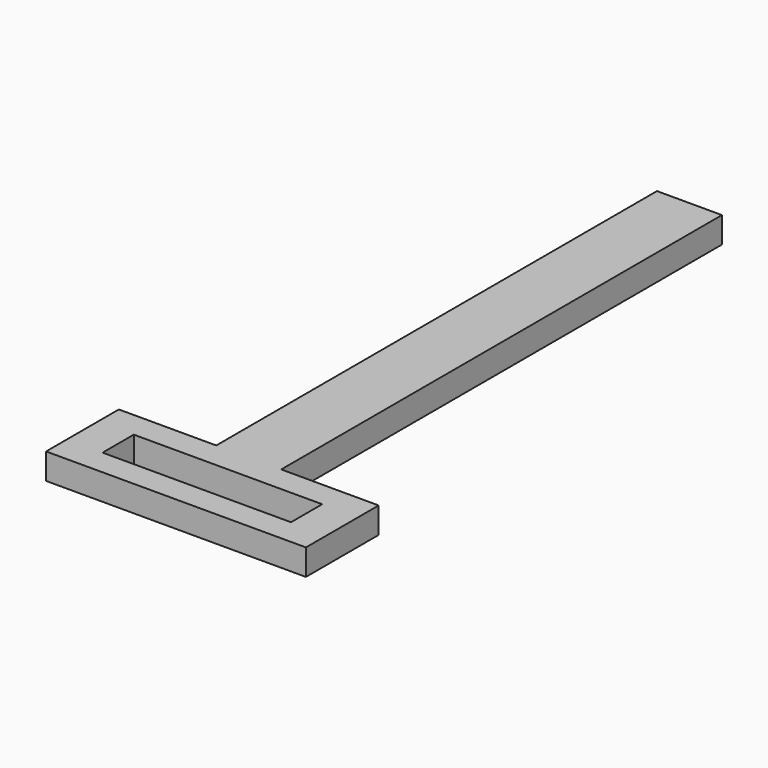
from build123d import *

# Parameters (mm, degrees)
BOX002_W     = 5
BOX002_H     = 42.400002
BOX002_DEPTH = 2
BOX001_W     = 14.5
BOX001_H     = 3
BOX001_DEPTH = 2
BOX_W        = 20
BOX_H        = 7
BOX_DEPTH    = 2


with BuildPart() as box002:
    # Box002 → Box002 (new body)
    with BuildSketch(Plane(origin=(7.5, 7, 0), x_dir=(1, 0, 0), z_dir=(0, 0, 1))):
        with Locations((2.5, 21.200001)):
            Rectangle(BOX002_W, BOX002_H)
    extrude(amount=BOX002_DEPTH)


with BuildPart() as box001:
    # Box001 → Box001 (new body)
    with BuildSketch(Plane(origin=(2.75, 2, 0), x_dir=(1, 0, 0), z_dir=(0, 0, 1))):
        with Locations((7.25, 1.5)):
            Rectangle(BOX001_W, BOX001_H)
    extrude(amount=BOX001_DEPTH)


with BuildPart() as fusion:
    # Box → Box (new body)
    with BuildSketch(Plane.XY):
        with Locations((10, 3.5)):
            Rectangle(BOX_W, BOX_H)
    extrude(amount=BOX_DEPTH)

    # Cut: cut Box001
    add(box001.part, mode=Mode.SUBTRACT)

    # Fusion: union Box002
    add(box002.part)


solid = fusion.part
